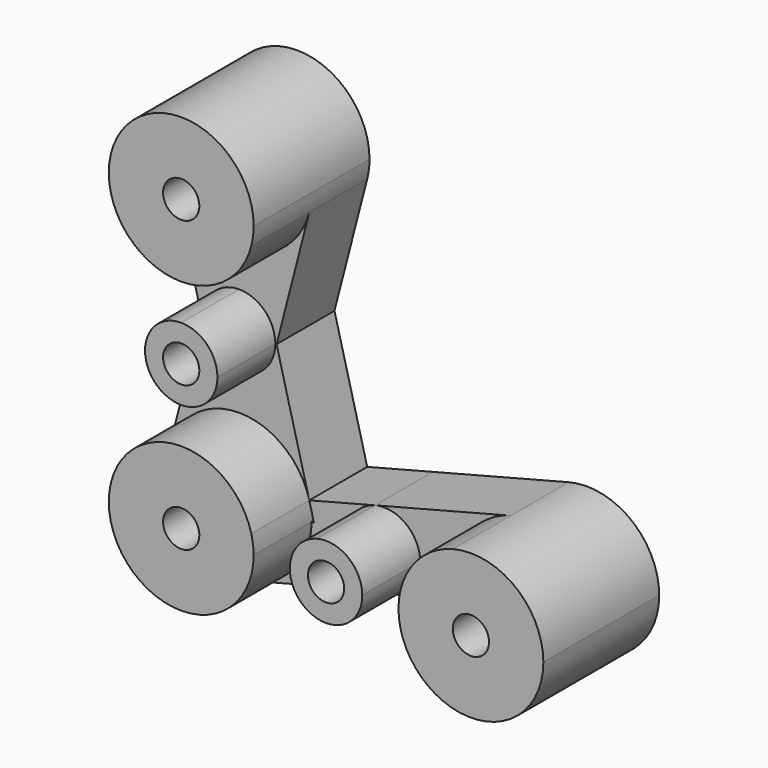
from build123d import *

# Parameters (mm, degrees)
F1_DEPTH = 50.8
F2_DEPTH = 25.4
F3_D     = 12.7
F3_2_D   = 12.7
F3_3_D   = 12.7
F3_4_D   = 12.7
F3_5_D   = 12.7


with BuildPart() as f1:
    # F0 (on Front) → F1 (new body)
    with BuildSketch(Plane.XZ):
        with BuildLine():
            ThreePointArc((-100.4957760886, 25.4), (-84.9415162219, 30.7195368579), (-75.9023318401, 44.45))
            ThreePointArc((-75.9023318401, 44.45), (-75.2982218034, 47.5994909709), (-75.0957760886, 50.8))
            ThreePointArc((-75.0957760886, 50.8), (-103.6962847293, 75.9975543345), (-125.0892205327, 44.4500007579))
            ThreePointArc((-125.0892205327, 44.4500007579), (-116.0500362647, 30.7195370976), (-100.4957760886, 25.4))
        make_face()
    extrude(amount=F1_DEPTH)

    # F3 (through all)
    with Locations(Plane(origin=(0, 0, 0), x_dir=(1, 0, 0), z_dir=(0, 1, 0))):
        with Locations((-100.4957760886, -50.8), (-100.4957760886, 50.8), (-100.4957760886, 0), (-49.6957760886, 50.8), (1.1042239114, 50.8)):
            Hole(F3_D / 2)


with BuildPart() as f1b:
    # F0 (on Front) → F1, piece 2 (new body)
    with BuildSketch(Plane.XZ):
        with BuildLine():
            ThreePointArc((-100.4957760886, 12.7), (-113.1957760886, 0), (-100.4957760886, -12.7))
            Line((-100.4957760886, -12.7), (-100.4957760886, 0))
            Line((-100.4957760886, 0), (-100.4957760886, 12.7))
        make_face()
        with BuildLine():
            Line((-100.4957760886, 0), (-100.4957760886, -12.7))
            ThreePointArc((-100.4957760886, -12.7), (-91.5155199675, -8.9802561211), (-87.7957760886, 0))
            ThreePointArc((-87.7957760886, 0), (-91.5155199675, 8.9802561211), (-100.4957760886, 12.7))
            Line((-100.4957760886, 12.7), (-100.4957760886, 0))
        make_face()
    extrude(amount=F1_DEPTH)

    # F3#2 (through all)
    with Locations(Plane(origin=(0, 0, 0), x_dir=(1, 0, 0), z_dir=(0, 1, 0))):
        with Locations((-100.4957760886, -50.8), (-100.4957760886, 50.8), (-100.4957760886, 0), (-49.6957760886, 50.8), (1.1042239114, 50.8)):
            Hole(F3_2_D / 2)


with BuildPart() as f1c:
    # F0 (on Front) → F1, piece 3 (new body)
    with BuildSketch(Plane.XZ):
        with BuildLine():
            Line((-100.4957760886, -25.4), (-100.4957760886, -50.8))
            Line((-100.4957760886, -50.8), (-75.0957760886, -50.8))
            ThreePointArc((-75.0957760886, -50.8), (-75.2982218034, -47.5994909709), (-75.9023318401, -44.45))
            ThreePointArc((-75.9023318401, -44.45), (-84.9415162219, -30.7195368579), (-100.4957760886, -25.4))
        make_face()
        with BuildLine():
            Line((-75.0957760886, -50.8), (-100.4957760886, -50.8))
            Line((-100.4957760886, -50.8), (-100.4957760886, -25.4))
            ThreePointArc((-100.4957760886, -25.4), (-116.0500359552, -30.7195368579), (-125.089220337, -44.45))
            ThreePointArc((-125.089220337, -44.45), (-118.4562883307, -68.7605122421), (-94.1457760886, -75.3934442484))
            ThreePointArc((-94.1457760886, -75.3934442484), (-80.4153129465, -66.3542598667), (-75.0957760886, -50.8))
        make_face()
    extrude(amount=F1_DEPTH)

    # F3#3 (through all)
    with Locations(Plane(origin=(0, 0, 0), x_dir=(1, 0, 0), z_dir=(0, 1, 0))):
        with Locations((-100.4957760886, -50.8), (-100.4957760886, 50.8), (-100.4957760886, 0), (-49.6957760886, 50.8), (1.1042239114, 50.8)):
            Hole(F3_3_D / 2)


with BuildPart() as f1d:
    # F0 (on Front) → F1, piece 4 (new body)
    with BuildSketch(Plane.XZ):
        with BuildLine():
            Line((-49.6957760886, -50.8), (-62.3957760886, -50.8))
            ThreePointArc((-62.3957760886, -50.8), (-57.4729060219, -60.840231571), (-46.5207760886, -63.0967221242))
            ThreePointArc((-46.5207760886, -63.0967221242), (-39.6555445175, -58.5771299333), (-36.9957760886, -50.8))
            Line((-36.9957760886, -50.8), (-49.6957760886, -50.8))
        make_face()
        with BuildLine():
            ThreePointArc((-52.8707760886, -38.5032778758), (-59.7360076596, -43.0228700667), (-62.3957760886, -50.8))
            Line((-62.3957760886, -50.8), (-49.6957760886, -50.8))
            Line((-49.6957760886, -50.8), (-36.9957760886, -50.8))
            ThreePointArc((-36.9957760886, -50.8), (-41.9186461552, -40.759768429), (-52.8707760886, -38.5032778758))
        make_face()
    extrude(amount=F1_DEPTH)

    # F3#4 (through all)
    with Locations(Plane(origin=(0, 0, 0), x_dir=(1, 0, 0), z_dir=(0, 1, 0))):
        with Locations((-100.4957760886, -50.8), (-100.4957760886, 50.8), (-100.4957760886, 0), (-49.6957760886, 50.8), (1.1042239114, 50.8)):
            Hole(F3_4_D / 2)


with BuildPart() as f1e:
    # F0 (on Front) → F1, piece 5 (new body)
    with BuildSketch(Plane.XZ):
        with BuildLine():
            ThreePointArc((26.5042239114, -50.8), (16.6584835721, -30.7195366984), (-5.2457765931, -26.2065558819))
            ThreePointArc((-5.2457765931, -26.2065558819), (-18.9762393902, -35.2457403393), (-24.2957760886, -50.8))
            ThreePointArc((-24.2957760886, -50.8), (-19.2626548825, -65.9772938363), (-6.1579612702, -75.1396932271))
            ThreePointArc((-6.1579612702, -75.1396932271), (16.2815177477, -71.1668787939), (26.5042239114, -50.8))
        make_face()
    extrude(amount=F1_DEPTH)

    # F3#5 (through all)
    with Locations(Plane(origin=(0, 0, 0), x_dir=(1, 0, 0), z_dir=(0, 1, 0))):
        with Locations((-100.4957760886, -50.8), (-100.4957760886, 50.8), (-100.4957760886, 0), (-49.6957760886, 50.8), (1.1042239114, 50.8)):
            Hole(F3_5_D / 2)


with BuildPart() as f2:
    # F0 (on Front) → F2 (new body)
    with BuildSketch(Plane.XZ):
        with BuildLine():
            ThreePointArc((-125.089220337, -44.45), (-116.0500359552, -30.7195368579), (-100.4957760886, -25.4))
            Line((-100.4957760886, -25.4), (-100.4957760886, -12.7))
            ThreePointArc((-100.4957760886, -12.7), (-113.1957760886, 0), (-100.4957760886, 12.7))
            Line((-100.4957760886, 12.7), (-100.4957760886, 25.4))
            ThreePointArc((-100.4957760886, 25.4), (-116.0500362647, 30.7195370976), (-125.0892205327, 44.4500007579))
            Line((-125.0892205327, 44.4500007579), (-113.6122796877, 0))
            Line((-113.6122796877, 0), (-125.089220337, -44.45))
        make_face()
        with BuildLine():
            Line((-100.4957760886, -12.7), (-100.4957760886, -25.4))
            ThreePointArc((-100.4957760886, -25.4), (-84.9415162219, -30.7195368579), (-75.9023318401, -44.45))
            Line((-75.9023318401, -44.45), (-87.3792724894, 0))
            Line((-87.3792724894, 0), (-75.9023318401, 44.45))
            ThreePointArc((-75.9023318401, 44.45), (-84.9415162219, 30.7195368579), (-100.4957760886, 25.4))
            Line((-100.4957760886, 25.4), (-100.4957760886, 12.7))
            ThreePointArc((-100.4957760886, 12.7), (-91.5155199675, 8.9802561211), (-87.7957760886, 0))
            ThreePointArc((-87.7957760886, 0), (-91.5155199675, -8.9802561211), (-100.4957760886, -12.7))
        make_face()
    extrude(amount=F2_DEPTH)


with BuildPart() as f2b:
    # F0 (on Front) → F2, piece 2 (new body)
    with BuildSketch(Plane.XZ):
        with BuildLine():
            Line((-74.2627688902, -50.8), (-75.0957760886, -50.8))
            ThreePointArc((-75.0957760886, -50.8), (-80.4153129465, -66.3542598667), (-94.1457760886, -75.3934442484))
            Line((-94.1457760886, -75.3934442484), (-46.5207760886, -63.0967221242))
            ThreePointArc((-46.5207760886, -63.0967221242), (-57.4729060219, -60.840231571), (-62.3957760886, -50.8))
            Line((-62.3957760886, -50.8), (-74.2627688902, -50.8))
        make_face()
        with BuildLine():
            Line((-75.9023318401, -44.45), (-74.2627688902, -50.8))
            Line((-74.2627688902, -50.8), (-62.3957760886, -50.8))
            ThreePointArc((-62.3957760886, -50.8), (-59.7360076596, -43.0228700667), (-52.8707760886, -38.5032778758))
            Line((-52.8707760886, -38.5032778758), (-75.9023318401, -44.45))
        make_face()
    extrude(amount=F2_DEPTH)


with BuildPart() as f2c:
    # F0 (on Front) → F2, piece 3 (new body)
    with BuildSketch(Plane.XZ):
        with BuildLine():
            ThreePointArc((-36.9957760886, -50.8), (-39.6555445175, -58.5771299333), (-46.5207760886, -63.0967221242))
            Line((-46.5207760886, -63.0967221242), (-6.1579612702, -75.1396932271))
            ThreePointArc((-6.1579612702, -75.1396932271), (-19.2626548825, -65.9772938363), (-24.2957760886, -50.8))
            Line((-24.2957760886, -50.8), (-36.9957760886, -50.8))
        make_face()
        with BuildLine():
            Line((-5.2457765931, -26.2065558819), (-52.8707760886, -38.5032778758))
            ThreePointArc((-52.8707760886, -38.5032778758), (-41.9186461552, -40.759768429), (-36.9957760886, -50.8))
            Line((-36.9957760886, -50.8), (-24.2957760886, -50.8))
            ThreePointArc((-24.2957760886, -50.8), (-18.9762393902, -35.2457403393), (-5.2457765931, -26.2065558819))
        make_face()
    extrude(amount=F2_DEPTH)


solid = Compound([f1.part, f1b.part, f1c.part, f1d.part, f1e.part, f2.part, f2b.part, f2c.part])
